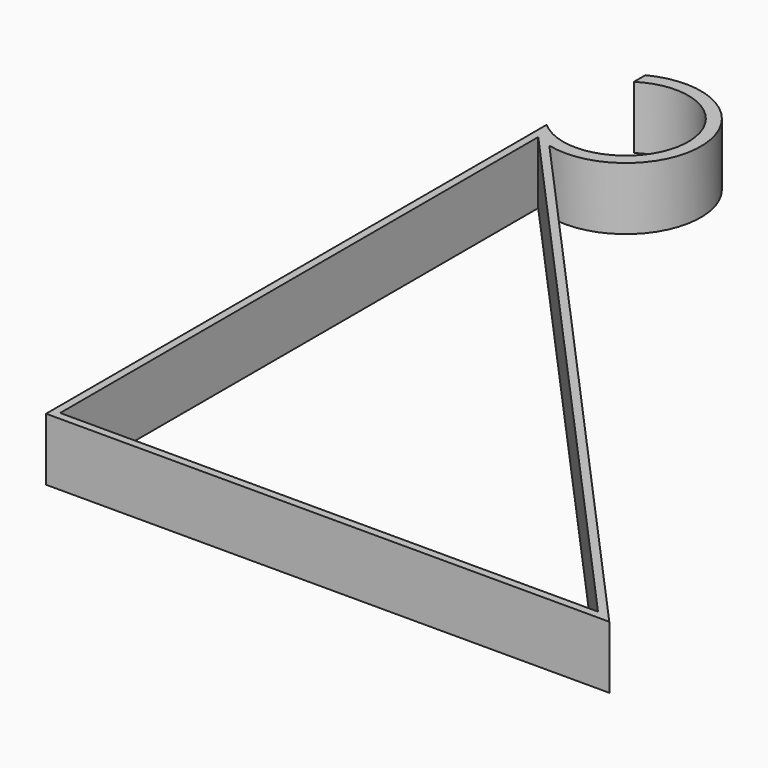
from build123d import *

# Parameters (mm, degrees)
F1_DEPTH = 25.4


with BuildPart() as f1:
    # F0 (on Top) → F1 (new body)
    with BuildSketch(Plane.XY):
        with BuildLine():
            Line((0, 254), (0, 0))
            Line((0, 0), (228.6, 0))
            Line((228.6, 0), (9.598807, 243.334659))
            ThreePointArc((9.598807, 243.334659), (47.240142, 276.341291), (3.175, 300.101997))
            Line((3.175, 300.101997), (3.175, 294.252142))
            ThreePointArc((3.175, 294.252142), (42.27479, 270.916748), (0, 254))
        make_face()
        Polygon((221.470974, 3.175), (3.175, 3.175), (3.175, 245.726083), align=None, mode=Mode.SUBTRACT)
    extrude(amount=F1_DEPTH)


solid = f1.part
